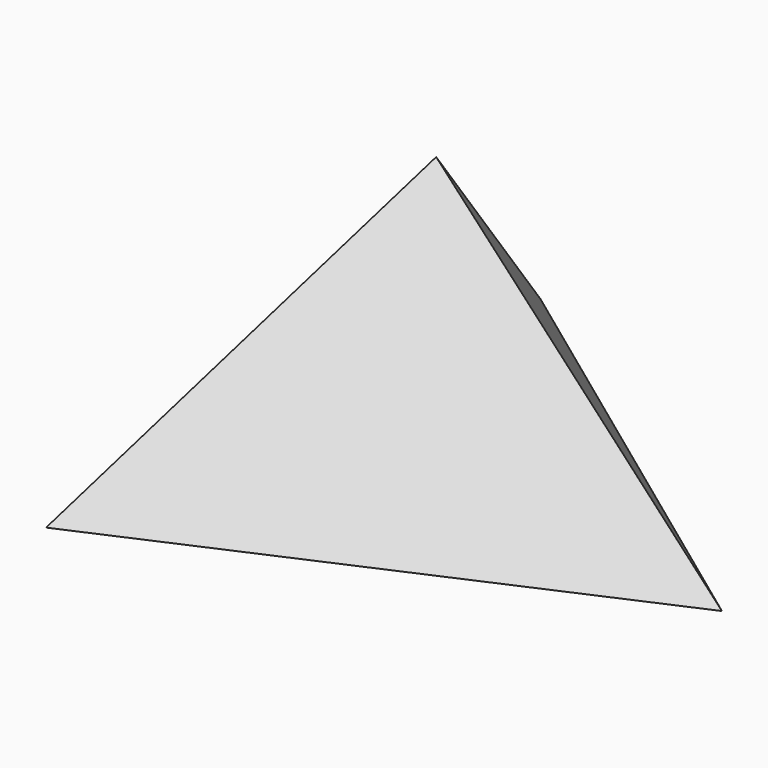
from build123d import *


with BuildPart() as f3:
    # F0 (on Top) → F3 section 0
    with BuildSketch(Plane.XY, mode=Mode.PRIVATE) as f3_s0:
        Polygon((132.591609, -14.659833), (-53.600017, 122.157618), (-78.991592, -107.497786), align=None)
    loft([f3_s0.sketch, Vertex(0, 0, 120)])


solid = f3.part
